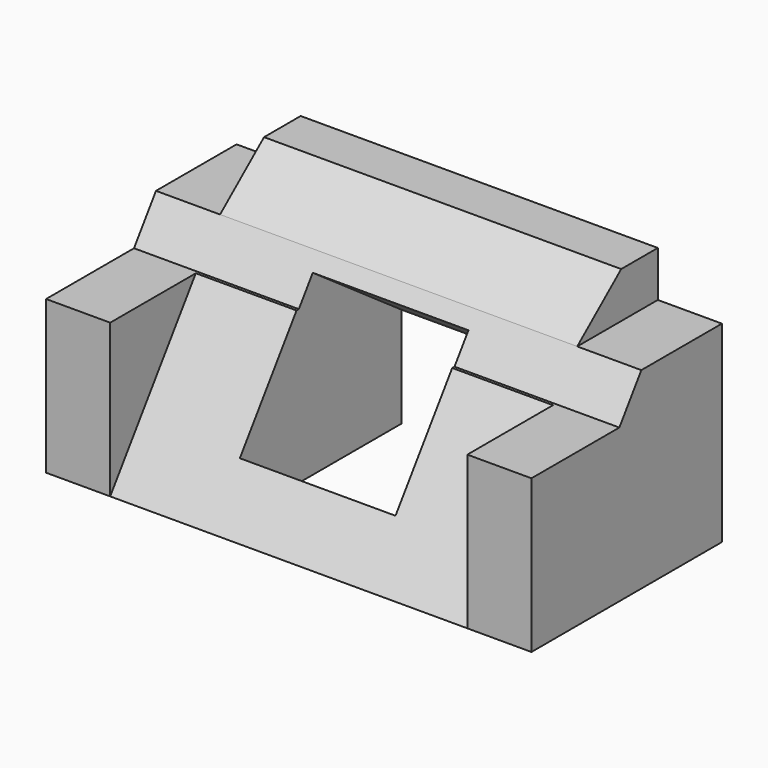
from build123d import *

# Parameters (mm, degrees)
F0_W      = 53
F0_H      = 26
F1_DEPTH  = 26
F2_W      = 11
F2_H      = 5
F3_DEPTH  = 7
F4_W      = 11
F4_H      = 5
F5_DEPTH  = 7
F7_DEPTH  = 53.001
F9_DEPTH  = 46.001
F12_DEPTH = 39
F14_W     = 17
F14_H     = 17
F15_DEPTH = 21.3027613393
F16_DEPTH = 39


with BuildPart() as f1:
    # F0 (on Front) → F1 (new body)
    with BuildSketch(Plane.XZ):
        Rectangle(F0_W, F0_H)
    extrude(amount=F1_DEPTH)

    # F2 (on face) → F3 (cut)
    with BuildSketch(Plane.YZ.offset(26.5)):
        with Locations((-5.5, 10.5)):
            Rectangle(F2_W, F2_H)
    extrude(amount=-F3_DEPTH, mode=Mode.SUBTRACT)

    # F4 (on face) → F5 (cut)
    with BuildSketch(Plane(origin=(-26.5, 0, 0), x_dir=(0, -1, 0), z_dir=(-1, 0, 0))):
        with Locations((5.5, 10.5)):
            Rectangle(F4_W, F4_H)
        with Locations((5.5, 10.5)):
            Rectangle(F4_W, F4_H)
    extrude(amount=-F5_DEPTH, mode=Mode.SUBTRACT)

    # F6 (on face) → F7 (cut, through all)
    with BuildSketch(Plane.YZ.offset(26.5)):
        Polygon((-20.9308508784, 13), (-26, 13), (-26, 3.7), (-14, 3.7), (-11, 8), (-11, 13), align=None)
    extrude(amount=-F7_DEPTH, mode=Mode.SUBTRACT)

    # F8 (on face) → F9 (cut, through all)
    with BuildSketch(Plane.YZ.offset(19.5)):
        Polygon((-11, 13), (-11, 8), (-5, 13), align=None)
    extrude(amount=-F9_DEPTH, mode=Mode.SUBTRACT)

    # F11 (on offset) → F12 (cut)
    with BuildSketch(Plane(origin=(-19.5, 0, 0), x_dir=(0, -1, 0), z_dir=(-1, 0, 0))):
        Polygon((26, -13), (26, 3.7961313778), (11.3091202676, 7.9921598434), align=None)
    extrude(amount=-F12_DEPTH, mode=Mode.SUBTRACT)

    # F14 (on offset) → F15 (cut, through all)
    with BuildSketch(Plane(origin=(0, -11.3456357591, 7.9399819584), x_dir=(1, 0, 0), z_dir=(0, -0.8192985131, 0.5733672004))):
        with Locations((0, -10.1738724944)):
            Rectangle(F14_W, F14_H)
    extrude(amount=-F15_DEPTH, mode=Mode.SUBTRACT)

    # F11 (on offset) → F16 (cut)
    with BuildSketch(Plane(origin=(-19.5, 0, 0), x_dir=(0, -1, 0), z_dir=(-1, 0, 0))):
        Polygon((26, -13), (26, 3.7961313778), (11.3091202676, 7.9921598434), align=None)
    extrude(amount=-F16_DEPTH, mode=Mode.SUBTRACT)


solid = f1.part
